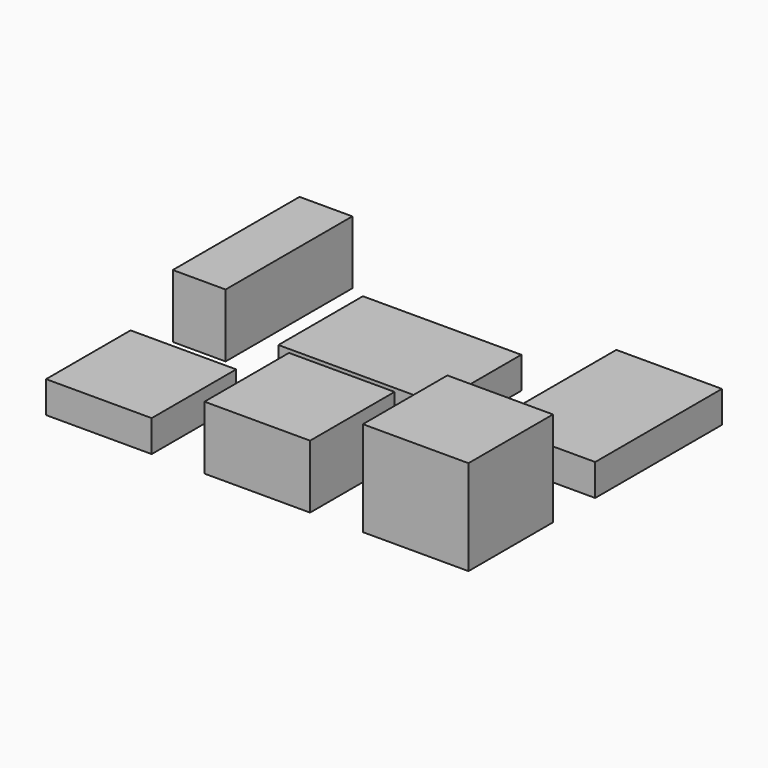
from build123d import *

# Parameters (mm, degrees)
BOX_W        = 10
BOX_H        = 10
BOX_DEPTH    = 3
BOX001_W     = 10
BOX001_H     = 10
BOX001_DEPTH = 6
BOX002_W     = 10
BOX002_H     = 10
BOX002_DEPTH = 9
BOX003_W     = 10
BOX003_H     = 15
BOX003_DEPTH = 3
BOX004_W     = 15
BOX004_H     = 10
BOX004_DEPTH = 3
BOX005_W     = 5
BOX005_H     = 15
BOX005_DEPTH = 6


with BuildPart() as cube:
    # Box → Box (new body)
    with BuildSketch(Plane.XY):
        with Locations((5, 5)):
            Rectangle(BOX_W, BOX_H)
    extrude(amount=BOX_DEPTH)


with BuildPart() as cube001:
    # Box001 → Box001 (new body)
    with BuildSketch(Plane(origin=(15, 0, 0), x_dir=(1, 0, 0), z_dir=(0, 0, 1))):
        with Locations((5, 5)):
            Rectangle(BOX001_W, BOX001_H)
    extrude(amount=BOX001_DEPTH)


with BuildPart() as cube002:
    # Box002 → Box002 (new body)
    with BuildSketch(Plane(origin=(30, 0, 0), x_dir=(1, 0, 0), z_dir=(0, 0, 1))):
        with Locations((5, 5)):
            Rectangle(BOX002_W, BOX002_H)
    extrude(amount=BOX002_DEPTH)


with BuildPart() as cube003:
    # Box003 → Box003 (new body)
    with BuildSketch(Plane(origin=(30, 15, 0), x_dir=(1, 0, 0), z_dir=(0, 0, 1))):
        with Locations((5, 7.5)):
            Rectangle(BOX003_W, BOX003_H)
    extrude(amount=BOX003_DEPTH)


with BuildPart() as cube004:
    # Box004 → Box004 (new body)
    with BuildSketch(Plane(origin=(10, 15, 0), x_dir=(1, 0, 0), z_dir=(0, 0, 1))):
        with Locations((7.5, 5)):
            Rectangle(BOX004_W, BOX004_H)
    extrude(amount=BOX004_DEPTH)


with BuildPart() as cube005:
    # Box005 → Box005 (new body)
    with BuildSketch(Plane(origin=(0, 15, 0), x_dir=(1, 0, 0), z_dir=(0, 0, 1))):
        with Locations((2.5, 7.5)):
            Rectangle(BOX005_W, BOX005_H)
    extrude(amount=BOX005_DEPTH)


solid = Compound([cube.part, cube001.part, cube002.part, cube003.part, cube004.part, cube005.part])
